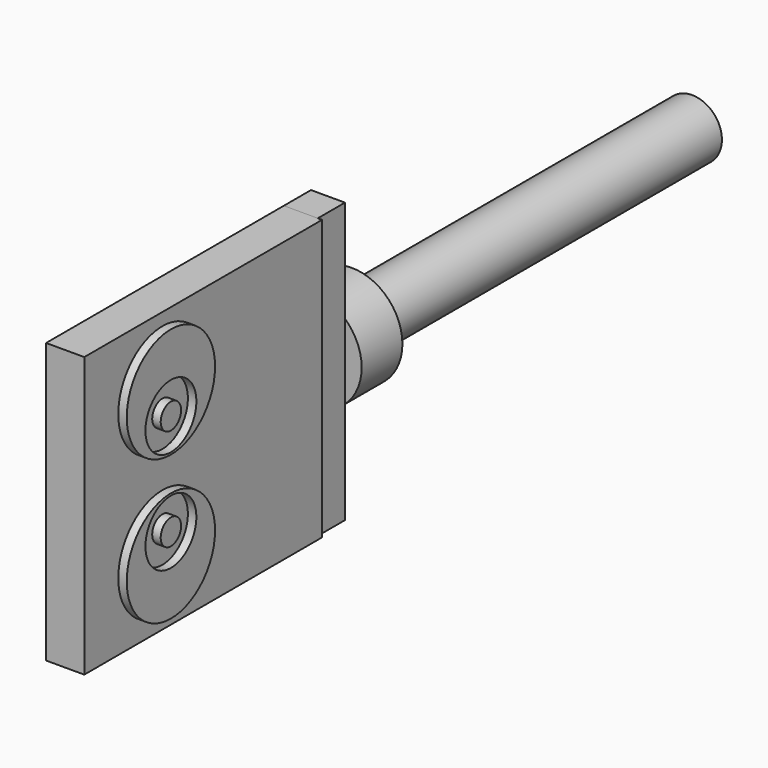
from build123d import *

# Parameters (mm, degrees)
F1_W      = 3.5
F1_H      = 56.115262
F3_R      = 5.964828
F4_DEPTH  = 6
F7_DEPTH  = 4
F6_W      = 35
F6_H      = 32.925087
F8_DEPTH  = 4.5
F9_R      = 6.5
F9_R_2    = 3.75
F10_DEPTH = 1
F9_R_3    = 1.5
F11_DEPTH = 1


with BuildPart() as f2:
    # F1 (on Top) → F2 (revolve)
    with BuildSketch(Plane.XY):
        with Locations((1.75, 28.057631)):
            Rectangle(F1_W, F1_H)
    revolve(axis=Axis((0, 28.057631, 0), (0, 1, 0)))


with BuildPart() as f4:
    # F3 (on Front) → F4 (new body)
    with BuildSketch(Plane.XZ):
        Circle(F3_R)
    extrude(amount=-F4_DEPTH)


with BuildPart() as f7:
    # F5 (on Right) → F7 (new body)
    with BuildSketch(Plane.YZ):
        Polygon((-4, -16.461764), (0, -16.461764), (0, -5.961764), (0, 0), (0, 5.963323), (0, 16.463323), (-4, 16.463323), align=None)
    extrude(amount=F7_DEPTH)


with BuildPart() as f8:
    # F6 (on Right) → F8 (new body)
    with BuildSketch(Plane.YZ):
        with Locations((-21.5, 0.00078)):
            Rectangle(F6_W, F6_H)
    extrude(amount=F8_DEPTH)

    # F9 (on face) → F10 (join)
    with BuildSketch(Plane.YZ.offset(4.5)):
        with Locations((-27.5, -8.5)):
            Circle(F9_R)
        with Locations((-27.5, -6)):
            Circle(F9_R_2, mode=Mode.SUBTRACT)
        with Locations((-27.5, 8.5)):
            Circle(F9_R)
        with Locations((-27.5, 6)):
            Circle(F9_R_2, mode=Mode.SUBTRACT)
    extrude(amount=F10_DEPTH)

    # F9 (on face) → F11 (join)
    with BuildSketch(Plane.YZ.offset(4.5)):
        with Locations((-27.5, -6)):
            Circle(F9_R_3)
        with Locations((-27.5, 6)):
            Circle(F9_R_3)
    extrude(amount=F11_DEPTH)


solid = Compound([f2.part, f4.part, f7.part, f8.part])
